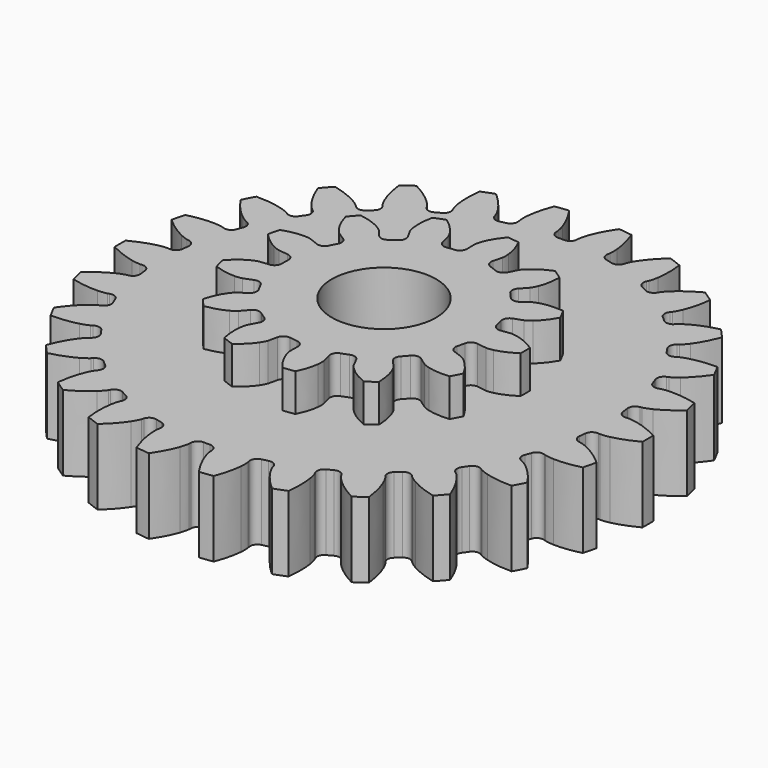
from build123d import *

# Parameters (mm, degrees)
PAD002_DEPTH    = 5
PAD_DEPTH       = 10
SKETCH_R        = 6.914284
POCKET_DEPTH    = 15.001
POCKET001_DEPTH = 5


with BuildPart() as part:
    # InvoluteGear001 → Pad002 (new body)
    with BuildSketch(Plane.XY):
        with BuildLine():
            Line((13.94554, -1.904607), (15.169847, -2.069797))
            add(Edge.make_bspline(
                [(15.169847, -2.069797), (15.274932, -2.076474), (15.590573, -2.081535), (16.120308, -1.961703)],
                knots=[0, 0, 0, 0, 1, 1, 1, 1], degree=3))
            add(Edge.make_bspline(
                [(16.120308, -1.961703), (16.751481, -1.815558), (17.651998, -1.493243), (18.736578, -0.791187)],
                knots=[0, 0, 0, 0, 1, 1, 1, 1], degree=3))
            ThreePointArc((18.736578, -0.791187), (18.751639, 0.000727), (18.733241, 0.79257))
            add(Edge.make_bspline(
                [(18.733241, 0.79257), (17.651998, 1.493243), (16.751481, 1.815558), (16.120308, 1.961703)],
                knots=[0, 0, 0, 0, 1, 1, 1, 1], degree=3))
            add(Edge.make_bspline(
                [(16.120308, 1.961703), (15.590573, 2.081535), (15.274932, 2.076474), (15.169847, 2.069797)],
                knots=[0, 0, 0, 0, 1, 1, 1, 1], degree=3))
            Line((15.169847, 2.069797), (13.94554, 1.904607))
            ThreePointArc((13.94554, 1.904607), (13.250267, 2.055981), (12.855154, 2.647762))
            ThreePointArc((12.855154, 2.647762), (12.743611, 3.141018), (12.61315, 3.629612))
            ThreePointArc((12.61315, 3.629612), (12.687991, 4.337225), (13.233278, 4.79437))
            Line((13.233278, 4.79437), (14.394116, 5.217065))
            add(Edge.make_bspline(
                [(14.394116, 5.217065), (14.490266, 5.259989), (14.772105, 5.402193), (15.185473, 5.754479)],
                knots=[0, 0, 0, 0, 1, 1, 1, 1], degree=3))
            add(Edge.make_bspline(
                [(15.185473, 5.754479), (15.676431, 6.177205), (16.324012, 6.881092), (16.958099, 8.006761)],
                knots=[0, 0, 0, 0, 1, 1, 1, 1], degree=3))
            ThreePointArc((16.958099, 8.006761), (16.603414, 8.714965), (16.219136, 9.407557))
            add(Edge.make_bspline(
                [(16.219136, 9.407557), (14.936123, 9.525493), (13.988968, 9.392398), (13.362175, 9.228483)],
                knots=[0, 0, 0, 0, 1, 1, 1, 1], degree=3))
            add(Edge.make_bspline(
                [(13.362175, 9.228483), (12.83743, 9.088409), (12.560295, 8.937241), (12.47035, 8.882494)],
                knots=[0, 0, 0, 0, 1, 1, 1, 1], degree=3))
            Line((12.47035, 8.882494), (11.463048, 8.167262))
            ThreePointArc((11.463048, 8.167262), (10.777067, 7.978187), (10.152197, 8.318564))
            ThreePointArc((10.152197, 8.318564), (9.824204, 8.703485), (9.481625, 9.075484))
            ThreePointArc((9.481625, 9.075484), (9.219049, 9.736826), (9.489431, 10.395014))
            Line((9.489431, 10.395014), (10.320865, 11.308761))
            add(Edge.make_bspline(
                [(10.320865, 11.308761), (10.386055, 11.391451), (10.569525, 11.648344), (10.771829, 12.152379)],
                knots=[0, 0, 0, 0, 1, 1, 1, 1], degree=3))
            add(Edge.make_bspline(
                [(10.771829, 12.152379), (11.0101, 12.754844), (11.256392, 13.679051), (11.294723, 14.970456)],
                knots=[0, 0, 0, 0, 1, 1, 1, 1], degree=3))
            ThreePointArc((11.294723, 14.970456), (10.651547, 15.43271), (9.989422, 15.867387))
            add(Edge.make_bspline(
                [(9.989422, 15.867387), (8.798563, 15.375568), (8.021751, 14.817553), (7.542929, 14.381128)],
                knots=[0, 0, 0, 0, 1, 1, 1, 1], degree=3))
            add(Edge.make_bspline(
                [(7.542929, 14.381128), (7.143385, 14.013237), (6.968246, 13.750594), (6.914046, 13.660319)],
                knots=[0, 0, 0, 0, 1, 1, 1, 1], degree=3))
            Line((6.914046, 13.660319), (6.354509, 12.558895))
            ThreePointArc((6.354509, 12.558895), (5.83497, 12.072687), (5.123495, 12.083684))
            ThreePointArc((5.123495, 12.083684), (4.654189, 12.272088), (4.177974, 12.442273))
            ThreePointArc((4.177974, 12.442273), (3.638134, 12.905837), (3.57167, 13.614287))
            Line((3.57167, 13.614287), (3.883229, 14.809756))
            add(Edge.make_bspline(
                [(3.883229, 14.809756), (3.902523, 14.913269), (3.945594, 15.225999), (3.890489, 15.766316)],
                knots=[0, 0, 0, 0, 1, 1, 1, 1], degree=3))
            add(Edge.make_bspline(
                [(3.890489, 15.766316), (3.821488, 16.410502), (3.610068, 17.343304), (3.043863, 18.5046)],
                knots=[0, 0, 0, 0, 1, 1, 1, 1], degree=3))
            ThreePointArc((3.043863, 18.5046), (2.259539, 18.615006), (1.471251, 18.692189))
            add(Edge.make_bspline(
                [(1.471251, 18.692189), (0.645358, 17.703285), (0.216848, 16.848185), (-0.004312, 16.23923)],
                knots=[0, 0, 0, 0, 1, 1, 1, 1], degree=3))
            add(Edge.make_bspline(
                [(-0.004312, 16.23923), (-0.187122, 15.727802), (-0.220144, 15.413852), (-0.226183, 15.308729)],
                knots=[0, 0, 0, 0, 1, 1, 1, 1], degree=3))
            Line((-0.226183, 15.308729), (-0.209771, 14.073437))
            ThreePointArc((-0.209771, 14.073437), (-0.443847, 13.401479), (-1.078939, 13.080578))
            ThreePointArc((-1.078939, 13.080578), (-1.582044, 13.029304), (-2.0828, 12.958687))
            ThreePointArc((-2.0828, 12.958687), (-2.776234, 13.118276), (-3.164318, 13.71469))
            Line((-3.164318, 13.71469), (-3.444008, 14.918014))
            add(Edge.make_bspline(
                [(-3.444008, 14.918014), (-3.475029, 15.018637), (-3.582224, 15.315562), (-3.882116, 15.76838)],
                knots=[0, 0, 0, 0, 1, 1, 1, 1], degree=3))
            add(Edge.make_bspline(
                [(-3.882116, 15.76838), (-4.242581, 16.306712), (-4.863279, 17.034416), (-5.90431, 17.799564)],
                knots=[0, 0, 0, 0, 1, 1, 1, 1], degree=3))
            ThreePointArc((-5.90431, 17.799564), (-6.650103, 17.532829), (-7.383965, 17.234836))
            add(Edge.make_bspline(
                [(-7.383965, 17.234836), (-7.655691, 15.975393), (-7.637733, 15.019101), (-7.550564, 14.377121)],
                knots=[0, 0, 0, 0, 1, 1, 1, 1], degree=3))
            add(Edge.make_bspline(
                [(-7.550564, 14.377121), (-7.474763, 13.839317), (-7.358102, 13.545982), (-7.314596, 13.450093)],
                knots=[0, 0, 0, 0, 1, 1, 1, 1], degree=3))
            Line((-7.314596, 13.450093), (-6.725996, 12.363924))
            ThreePointArc((-6.725996, 12.363924), (-6.620985, 11.660154), (-7.0342, 11.080869))
            ThreePointArc((-7.0342, 11.080869), (-7.45585, 10.801663), (-7.86643, 10.506422))
            ThreePointArc((-7.86643, 10.506422), (-8.5546, 10.325476), (-9.175399, 10.673223))
            Line((-9.175399, 10.673223), (-9.982264, 11.608735))
            add(Edge.make_bspline(
                [(-9.982264, 11.608735), (-10.056494, 11.683416), (-10.289399, 11.896514), (-10.765374, 12.158098)],
                knots=[0, 0, 0, 0, 1, 1, 1, 1], degree=3))
            add(Edge.make_bspline(
                [(-10.765374, 12.158098), (-11.334726, 12.467251), (-12.222507, 12.823148), (-13.499876, 13.016861)],
                knots=[0, 0, 0, 0, 1, 1, 1, 1], degree=3))
            ThreePointArc((-13.499876, 13.016861), (-14.036286, 12.434093), (-14.547604, 11.82919))
            add(Edge.make_bspline(
                [(-14.547604, 11.82919), (-14.202913, 10.587732), (-13.742601, 9.749322), (-13.367074, 9.221386)],
                knots=[0, 0, 0, 0, 1, 1, 1, 1], degree=3))
            add(Edge.make_bspline(
                [(-13.367074, 9.221386), (-13.050025, 8.780411), (-12.810407, 8.574891), (-12.727323, 8.510204)],
                knots=[0, 0, 0, 0, 1, 1, 1, 1], degree=3))
            Line((-12.727323, 8.510204), (-11.701375, 7.821985))
            ThreePointArc((-11.701375, 7.821985), (-11.281335, 7.247629), (-11.378012, 6.542666))
            ThreePointArc((-11.378012, 6.542666), (-11.62161, 6.099492), (-11.847956, 5.647262))
            ThreePointArc((-11.847956, 5.647262), (-12.37321, 5.167235), (-13.084506, 5.186649))
            Line((-13.084506, 5.186649), (-14.233704, 5.640035))
            add(Edge.make_bspline(
                [(-14.233704, 5.640035), (-14.334137, 5.671665), (-14.639396, 5.752118), (-15.182415, 5.762542)],
                knots=[0, 0, 0, 0, 1, 1, 1, 1], degree=3))
            add(Edge.make_bspline(
                [(-15.182415, 5.762542), (-15.830222, 5.771693), (-16.781706, 5.674251), (-18.002784, 5.252153)],
                knots=[0, 0, 0, 0, 1, 1, 1, 1], degree=3))
            ThreePointArc((-18.002784, 5.252153), (-18.206925, 4.486855), (-18.378562, 3.713619))
            add(Edge.make_bspline(
                [(-18.378562, 3.713619), (-17.496419, 2.774548), (-16.699204, 2.246091), (-16.121348, 1.953143)],
                knots=[0, 0, 0, 0, 1, 1, 1, 1], degree=3))
            add(Edge.make_bspline(
                [(-16.121348, 1.953143), (-15.635684, 1.710019), (-15.328003, 1.639395), (-15.224374, 1.620729)],
                knots=[0, 0, 0, 0, 1, 1, 1, 1], degree=3))
            Line((-15.224374, 1.620729), (-13.996111, 1.488123))
            ThreePointArc((-13.996111, 1.488123), (-13.357267, 1.174758), (-13.115257, 0.505617))
            ThreePointArc((-13.115257, 0.505617), (-13.125, 0), (-13.115257, -0.505617))
            ThreePointArc((-13.115257, -0.505617), (-13.357267, -1.174758), (-13.996111, -1.488123))
            Line((-13.996111, -1.488123), (-15.224374, -1.620729))
            add(Edge.make_bspline(
                [(-15.224374, -1.620729), (-15.328003, -1.639395), (-15.635684, -1.710019), (-16.121348, -1.953143)],
                knots=[0, 0, 0, 0, 1, 1, 1, 1], degree=3))
            add(Edge.make_bspline(
                [(-16.121348, -1.953143), (-16.699204, -2.246091), (-17.496419, -2.774548), (-18.381471, -3.715761)],
                knots=[0, 0, 0, 0, 1, 1, 1, 1], degree=3))
            ThreePointArc((-18.381471, -3.715761), (-18.206577, -4.488267), (-17.999213, -5.252698))
            add(Edge.make_bspline(
                [(-17.999213, -5.252698), (-16.781706, -5.674251), (-15.830222, -5.771693), (-15.182415, -5.762542)],
                knots=[0, 0, 0, 0, 1, 1, 1, 1], degree=3))
            add(Edge.make_bspline(
                [(-15.182415, -5.762542), (-14.639396, -5.752118), (-14.334137, -5.671665), (-14.233704, -5.640035)],
                knots=[0, 0, 0, 0, 1, 1, 1, 1], degree=3))
            Line((-14.233704, -5.640035), (-13.084506, -5.186649))
            ThreePointArc((-13.084506, -5.186649), (-12.37321, -5.167235), (-11.847956, -5.647262))
            ThreePointArc((-11.847956, -5.647262), (-11.62161, -6.099492), (-11.378012, -6.542666))
            ThreePointArc((-11.378012, -6.542666), (-11.281335, -7.247629), (-11.701375, -7.821985))
            Line((-11.701375, -7.821985), (-12.727323, -8.510204))
            add(Edge.make_bspline(
                [(-12.727323, -8.510204), (-12.810407, -8.574891), (-13.050025, -8.780411), (-13.367074, -9.221386)],
                knots=[0, 0, 0, 0, 1, 1, 1, 1], degree=3))
            add(Edge.make_bspline(
                [(-13.367074, -9.221386), (-13.742601, -9.749322), (-14.202913, -10.587732), (-14.549184, -11.832438)],
                knots=[0, 0, 0, 0, 1, 1, 1, 1], degree=3))
            ThreePointArc((-14.549184, -11.832438), (-14.035321, -12.435181), (-13.496461, -13.015684))
            add(Edge.make_bspline(
                [(-13.496461, -13.015684), (-12.222507, -12.823148), (-11.334726, -12.467251), (-10.765374, -12.158098)],
                knots=[0, 0, 0, 0, 1, 1, 1, 1], degree=3))
            add(Edge.make_bspline(
                [(-10.765374, -12.158098), (-10.289399, -11.896514), (-10.056494, -11.683416), (-9.982264, -11.608735)],
                knots=[0, 0, 0, 0, 1, 1, 1, 1], degree=3))
            Line((-9.982264, -11.608735), (-9.175399, -10.673223))
            ThreePointArc((-9.175399, -10.673223), (-8.5546, -10.325476), (-7.86643, -10.506422))
            ThreePointArc((-7.86643, -10.506422), (-7.45585, -10.801663), (-7.0342, -11.080869))
            ThreePointArc((-7.0342, -11.080869), (-6.620985, -11.660154), (-6.725996, -12.363924))
            Line((-6.725996, -12.363924), (-7.314596, -13.450093))
            add(Edge.make_bspline(
                [(-7.314596, -13.450093), (-7.358102, -13.545982), (-7.474763, -13.839317), (-7.550564, -14.377121)],
                knots=[0, 0, 0, 0, 1, 1, 1, 1], degree=3))
            add(Edge.make_bspline(
                [(-7.550564, -14.377121), (-7.637733, -15.019101), (-7.655691, -15.975393), (-7.383854, -17.238446)],
                knots=[0, 0, 0, 0, 1, 1, 1, 1], degree=3))
            ThreePointArc((-7.383854, -17.238446), (-6.648743, -17.533345), (-5.901833, -17.796934))
            add(Edge.make_bspline(
                [(-5.901833, -17.796934), (-4.863279, -17.034416), (-4.242581, -16.306712), (-3.882116, -15.76838)],
                knots=[0, 0, 0, 0, 1, 1, 1, 1], degree=3))
            add(Edge.make_bspline(
                [(-3.882116, -15.76838), (-3.582224, -15.315562), (-3.475029, -15.018637), (-3.444008, -14.918014)],
                knots=[0, 0, 0, 0, 1, 1, 1, 1], degree=3))
            Line((-3.444008, -14.918014), (-3.164318, -13.71469))
            ThreePointArc((-3.164318, -13.71469), (-2.776234, -13.118276), (-2.0828, -12.958687))
            ThreePointArc((-2.0828, -12.958687), (-1.582044, -13.029304), (-1.078939, -13.080578))
            ThreePointArc((-1.078939, -13.080578), (-0.443847, -13.401479), (-0.209771, -14.073437))
            Line((-0.209771, -14.073437), (-0.226183, -15.308729))
            add(Edge.make_bspline(
                [(-0.226183, -15.308729), (-0.220144, -15.413852), (-0.187122, -15.727802), (-0.004312, -16.23923)],
                knots=[0, 0, 0, 0, 1, 1, 1, 1], degree=3))
            add(Edge.make_bspline(
                [(-0.004312, -16.23923), (0.216848, -16.848185), (0.645358, -17.703285), (1.473027, -18.695334)],
                knots=[0, 0, 0, 0, 1, 1, 1, 1], degree=3))
            ThreePointArc((1.473027, -18.695334), (2.260982, -18.614831), (3.044834, -18.501121))
            add(Edge.make_bspline(
                [(3.044834, -18.501121), (3.610068, -17.343304), (3.821488, -16.410502), (3.890489, -15.766316)],
                knots=[0, 0, 0, 0, 1, 1, 1, 1], degree=3))
            add(Edge.make_bspline(
                [(3.890489, -15.766316), (3.945594, -15.225999), (3.902523, -14.913269), (3.883229, -14.809756)],
                knots=[0, 0, 0, 0, 1, 1, 1, 1], degree=3))
            Line((3.883229, -14.809756), (3.57167, -13.614287))
            ThreePointArc((3.57167, -13.614287), (3.638134, -12.905837), (4.177974, -12.442273))
            ThreePointArc((4.177974, -12.442273), (4.654189, -12.272088), (5.123495, -12.083684))
            ThreePointArc((5.123495, -12.083684), (5.83497, -12.072687), (6.354509, -12.558895))
            Line((6.354509, -12.558895), (6.914046, -13.660319))
            add(Edge.make_bspline(
                [(6.914046, -13.660319), (6.968246, -13.750594), (7.143385, -14.013237), (7.542929, -14.381128)],
                knots=[0, 0, 0, 0, 1, 1, 1, 1], degree=3))
            add(Edge.make_bspline(
                [(7.542929, -14.381128), (8.021751, -14.817553), (8.798563, -15.375568), (9.992456, -15.869347)],
                knots=[0, 0, 0, 0, 1, 1, 1, 1], degree=3))
            ThreePointArc((9.992456, -15.869347), (10.652743, -15.431884), (11.293966, -14.966924))
            add(Edge.make_bspline(
                [(11.293966, -14.966924), (11.256392, -13.679051), (11.0101, -12.754844), (10.771829, -12.152379)],
                knots=[0, 0, 0, 0, 1, 1, 1, 1], degree=3))
            add(Edge.make_bspline(
                [(10.771829, -12.152379), (10.569525, -11.648344), (10.386055, -11.391451), (10.320865, -11.308761)],
                knots=[0, 0, 0, 0, 1, 1, 1, 1], degree=3))
            Line((10.320865, -11.308761), (9.489431, -10.395014))
            ThreePointArc((9.489431, -10.395014), (9.219049, -9.736826), (9.481625, -9.075484))
            ThreePointArc((9.481625, -9.075484), (9.824204, -8.703485), (10.152197, -8.318564))
            ThreePointArc((10.152197, -8.318564), (10.777067, -7.978187), (11.463048, -8.167262))
            Line((11.463048, -8.167262), (12.47035, -8.882494))
            add(Edge.make_bspline(
                [(12.47035, -8.882494), (12.560295, -8.937241), (12.83743, -9.088409), (13.362175, -9.228483)],
                knots=[0, 0, 0, 0, 1, 1, 1, 1], degree=3))
            add(Edge.make_bspline(
                [(13.362175, -9.228483), (13.988968, -9.392398), (14.936123, -9.525493), (16.222733, -9.407883)],
                knots=[0, 0, 0, 0, 1, 1, 1, 1], degree=3))
            ThreePointArc((16.222733, -9.407883), (16.60409, -8.713678), (16.955787, -8.003985))
            add(Edge.make_bspline(
                [(16.955787, -8.003985), (16.324012, -6.881092), (15.676431, -6.177205), (15.185473, -5.754479)],
                knots=[0, 0, 0, 0, 1, 1, 1, 1], degree=3))
            add(Edge.make_bspline(
                [(15.185473, -5.754479), (14.772105, -5.402193), (14.490266, -5.259989), (14.394116, -5.217065)],
                knots=[0, 0, 0, 0, 1, 1, 1, 1], degree=3))
            Line((14.394116, -5.217065), (13.233278, -4.79437))
            ThreePointArc((13.233278, -4.79437), (12.687991, -4.337225), (12.61315, -3.629612))
            ThreePointArc((12.61315, -3.629612), (12.743611, -3.141018), (12.855154, -2.647762))
            ThreePointArc((12.855154, -2.647762), (13.250267, -2.055981), (13.94554, -1.904607))
        make_face()
    extrude(amount=PAD002_DEPTH)

    # InvoluteGear → Pad (join)
    with BuildSketch(Plane.XY):
        with BuildLine():
            Line((30.239023, -2.281909), (30.502529, -2.299907))
            add(Edge.make_bspline(
                [(30.502529, -2.299907), (30.632497, -2.302355), (31.024091, -2.295099), (31.676261, -2.158069)],
                knots=[0, 0, 0, 0, 1, 1, 1, 1], degree=3))
            add(Edge.make_bspline(
                [(31.676261, -2.158069), (32.457678, -1.991856), (33.586555, -1.640863), (34.990904, -0.903734)],
                knots=[0, 0, 0, 0, 1, 1, 1, 1], degree=3))
            ThreePointArc((34.990904, -0.903734), (35.001287, 0.000476), (34.988307, 0.904653))
            add(Edge.make_bspline(
                [(34.988307, 0.904653), (33.586555, 1.640863), (32.457678, 1.991856), (31.676261, 2.158069)],
                knots=[0, 0, 0, 0, 1, 1, 1, 1], degree=3))
            add(Edge.make_bspline(
                [(31.676261, 2.158069), (31.024091, 2.295099), (30.632497, 2.302355), (30.502529, 2.299907)],
                knots=[0, 0, 0, 0, 1, 1, 1, 1], degree=3))
            Line((30.502529, 2.299907), (30.239023, 2.281909))
            ThreePointArc((30.239023, 2.281909), (29.550636, 2.493126), (29.208141, 3.126519))
            ThreePointArc((29.208141, 3.126519), (29.160823, 3.540765), (29.107631, 3.954298))
            ThreePointArc((29.107631, 3.954298), (29.288592, 4.65125), (29.906429, 5.021071))
            Line((29.906429, 5.021071), (30.166584, 5.066657))
            add(Edge.make_bspline(
                [(30.166584, 5.066657), (30.293362, 5.095384), (30.67184, 5.196144), (31.272266, 5.485266)],
                knots=[0, 0, 0, 0, 1, 1, 1, 1], degree=3))
            add(Edge.make_bspline(
                [(31.272266, 5.485266), (31.991199, 5.833654), (33.003274, 6.444606), (34.190409, 7.496398)],
                knots=[0, 0, 0, 0, 1, 1, 1, 1], degree=3))
            ThreePointArc((34.190409, 7.496398), (33.984099, 8.376819), (33.755112, 9.251615))
            add(Edge.make_bspline(
                [(33.755112, 9.251615), (32.217906, 9.630971), (31.037834, 9.701607), (30.239346, 9.675985)],
                knots=[0, 0, 0, 0, 1, 1, 1, 1], degree=3))
            add(Edge.make_bspline(
                [(30.239346, 9.675985), (29.573334, 9.652958), (29.191383, 9.566289), (29.065777, 9.532808)],
                knots=[0, 0, 0, 0, 1, 1, 1, 1], degree=3))
            Line((29.065777, 9.532808), (28.814236, 9.452272))
            ThreePointArc((28.814236, 9.452272), (28.095304, 9.49261), (27.611181, 10.025634))
            ThreePointArc((27.611181, 10.025634), (27.466102, 10.416519), (27.31549, 10.805305))
            ThreePointArc((27.31549, 10.805305), (27.324402, 11.525312), (27.835781, 12.032245))
            Line((27.835781, 12.032245), (28.077468, 12.138766))
            add(Edge.make_bspline(
                [(28.077468, 12.138766), (28.193687, 12.196997), (28.537054, 12.385405), (29.050841, 12.809817)],
                knots=[0, 0, 0, 0, 1, 1, 1, 1], degree=3))
            add(Edge.make_bspline(
                [(29.050841, 12.809817), (29.665508, 13.320134), (30.501964, 14.155538), (31.402893, 15.460867)],
                knots=[0, 0, 0, 0, 1, 1, 1, 1], degree=3))
            ThreePointArc((31.402893, 15.460867), (30.991879, 16.266331), (30.560194, 17.060907))
            add(Edge.make_bspline(
                [(30.560194, 17.060907), (28.97687, 17.061362), (27.814185, 16.847536), (27.045031, 16.631567)],
                knots=[0, 0, 0, 0, 1, 1, 1, 1], degree=3))
            add(Edge.make_bspline(
                [(27.045031, 16.631567), (26.403883, 16.449823), (26.053772, 16.274265), (25.939828, 16.211698)],
                knots=[0, 0, 0, 0, 1, 1, 1, 1], degree=3))
            Line((25.939828, 16.211698), (25.714869, 16.073305))
            ThreePointArc((25.714869, 16.073305), (25.007175, 15.940418), (24.409559, 16.342095))
            ThreePointArc((24.409559, 16.342095), (24.175151, 16.686902), (23.935873, 17.028347))
            ThreePointArc((23.935873, 17.028347), (23.772217, 17.729565), (24.147419, 18.344148))
            Line((24.147419, 18.344148), (24.356591, 18.505413))
            add(Edge.make_bspline(
                [(24.356591, 18.505413), (24.455497, 18.589766), (24.743798, 18.854872), (25.141086, 19.389909)],
                knots=[0, 0, 0, 0, 1, 1, 1, 1], degree=3))
            add(Edge.make_bspline(
                [(25.141086, 19.389909), (25.615766, 20.032496), (26.22799, 21.043802), (26.790354, 22.526807)],
                knots=[0, 0, 0, 0, 1, 1, 1, 1], degree=3))
            ThreePointArc((26.790354, 22.526807), (26.198523, 23.210503), (25.589228, 23.878682))
            add(Edge.make_bspline(
                [(25.589228, 23.878682), (24.051804, 23.500209), (22.974076, 23.014347), (22.278957, 22.620584)],
                knots=[0, 0, 0, 0, 1, 1, 1, 1], degree=3))
            add(Edge.make_bspline(
                [(22.278957, 22.620584), (21.699934, 22.290684), (21.40201, 22.03644), (21.30635, 21.948423)],
                knots=[0, 0, 0, 0, 1, 1, 1, 1], degree=3))
            Line((21.30635, 21.948423), (21.121048, 21.760215))
            ThreePointArc((21.121048, 21.760215), (20.46572, 21.461828), (19.789342, 21.708813))
            ThreePointArc((19.789342, 21.708813), (19.479228, 21.987503), (19.16519, 22.261764))
            ThreePointArc((19.16519, 22.261764), (18.838477, 22.90344), (19.055697, 23.589956))
            Line((19.055697, 23.589956), (19.220197, 23.796593))
            add(Edge.make_bspline(
                [(19.220197, 23.796593), (19.296043, 23.902165), (19.512522, 24.228562), (19.770223, 24.843129)],
                knots=[0, 0, 0, 0, 1, 1, 1, 1], degree=3))
            add(Edge.make_bspline(
                [(19.770223, 24.843129), (20.077328, 25.580642), (20.429741, 26.709076), (20.620857, 28.28357)],
                knots=[0, 0, 0, 0, 1, 1, 1, 1], degree=3))
            ThreePointArc((20.620857, 28.28357), (19.882605, 28.805765), (19.131109, 29.308713))
            add(Edge.make_bspline(
                [(19.131109, 29.308713), (17.728934, 28.573309), (16.798797, 27.843649), (16.218111, 27.294974)],
                knots=[0, 0, 0, 0, 1, 1, 1, 1], degree=3))
            add(Edge.make_bspline(
                [(16.218111, 27.294974), (15.734863, 26.836091), (15.506441, 26.517938), (15.434625, 26.409585)],
                knots=[0, 0, 0, 0, 1, 1, 1, 1], degree=3))
            Line((15.434625, 26.409585), (15.299749, 26.1825))
            ThreePointArc((15.299749, 26.1825), (14.734872, 25.735953), (14.019041, 25.813894))
            ThreePointArc((14.019041, 25.813894), (13.651243, 26.010271), (13.280696, 26.201407))
            ThreePointArc((13.280696, 26.201407), (12.809913, 26.74625), (12.856527, 27.464802))
            Line((12.856527, 27.464802), (12.966796, 27.704802))
            add(Edge.make_bspline(
                [(12.966796, 27.704802), (13.015172, 27.825456), (13.147249, 28.194176), (13.250386, 28.852557)],
                knots=[0, 0, 0, 0, 1, 1, 1, 1], degree=3))
            add(Edge.make_bspline(
                [(13.250386, 28.852557), (13.372069, 29.642134), (13.44419, 30.822116), (13.252951, 32.396595)],
                knots=[0, 0, 0, 0, 1, 1, 1, 1], degree=3))
            ThreePointArc((13.252951, 32.396595), (12.411182, 32.72694), (11.561159, 33.035429))
            add(Edge.make_bspline(
                [(11.561159, 33.035429), (10.375723, 31.985832), (9.647233, 31.054778), (9.214727, 30.38308)],
                knots=[0, 0, 0, 0, 1, 1, 1, 1], degree=3))
            add(Edge.make_bspline(
                [(9.214727, 30.38308), (8.85534, 29.821882), (8.709694, 29.458309), (8.665896, 29.335918)],
                knots=[0, 0, 0, 0, 1, 1, 1, 1], degree=3))
            Line((8.665896, 29.335918), (8.589284, 29.083154))
            ThreePointArc((8.589284, 29.083154), (8.147687, 28.514399), (7.434004, 28.418765))
            ThreePointArc((7.434004, 28.418765), (7.029898, 28.521416), (6.624375, 28.618321))
            ThreePointArc((6.624375, 28.618321), (6.036884, 29.034665), (5.910182, 29.743493))
            Line((5.910182, 29.743493), (5.959811, 30.002908))
            add(Edge.make_bspline(
                [(5.959811, 30.002908), (5.977908, 30.131634), (6.017906, 30.521247), (5.960485, 31.185179)],
                knots=[0, 0, 0, 0, 1, 1, 1, 1], degree=3))
            add(Edge.make_bspline(
                [(5.960485, 31.185179), (5.889674, 31.980933), (5.677311, 33.143887), (5.114832, 34.626848)],
                knots=[0, 0, 0, 0, 1, 1, 1, 1], degree=3))
            ThreePointArc((5.114832, 34.626848), (4.218466, 34.746145), (3.319317, 34.842246))
            add(Edge.make_bspline(
                [(3.319317, 34.842246), (2.419513, 33.539455), (1.935007, 32.461117), (1.675817, 31.705432)],
                knots=[0, 0, 0, 0, 1, 1, 1, 1], degree=3))
            add(Edge.make_bspline(
                [(1.675817, 31.705432), (1.461176, 31.074534), (1.406771, 30.68667), (1.393536, 30.557354)],
                knots=[0, 0, 0, 0, 1, 1, 1, 1], degree=3))
            Line((1.393536, 30.557354), (1.37964, 30.2936))
            ThreePointArc((1.37964, 30.2936), (1.086987, 29.635692), (0.416929, 29.372041))
            ThreePointArc((0.416929, 29.372041), (0, 29.375), (-0.416929, 29.372041))
            ThreePointArc((-0.416929, 29.372041), (-1.086987, 29.635692), (-1.37964, 30.2936))
            Line((-1.37964, 30.2936), (-1.393536, 30.557354))
            add(Edge.make_bspline(
                [(-1.393536, 30.557354), (-1.406771, 30.68667), (-1.461176, 31.074534), (-1.675817, 31.705432)],
                knots=[0, 0, 0, 0, 1, 1, 1, 1], degree=3))
            add(Edge.make_bspline(
                [(-1.675817, 31.705432), (-1.935007, 32.461117), (-2.419513, 33.539455), (-3.320543, 34.844714)],
                knots=[0, 0, 0, 0, 1, 1, 1, 1], degree=3))
            ThreePointArc((-3.320543, 34.844714), (-4.219412, 34.74603), (-5.115432, 34.624159))
            add(Edge.make_bspline(
                [(-5.115432, 34.624159), (-5.677311, 33.143887), (-5.889674, 31.980933), (-5.960485, 31.185179)],
                knots=[0, 0, 0, 0, 1, 1, 1, 1], degree=3))
            add(Edge.make_bspline(
                [(-5.960485, 31.185179), (-6.017906, 30.521247), (-5.977908, 30.131634), (-5.959811, 30.002908)],
                knots=[0, 0, 0, 0, 1, 1, 1, 1], degree=3))
            Line((-5.959811, 30.002908), (-5.910182, 29.743493))
            ThreePointArc((-5.910182, 29.743493), (-6.036884, 29.034665), (-6.624375, 28.618321))
            ThreePointArc((-6.624375, 28.618321), (-7.029898, 28.521416), (-7.434004, 28.418765))
            ThreePointArc((-7.434004, 28.418765), (-8.147687, 28.514399), (-8.589284, 29.083154))
            Line((-8.589284, 29.083154), (-8.665896, 29.335918))
            add(Edge.make_bspline(
                [(-8.665896, 29.335918), (-8.709694, 29.458309), (-8.85534, 29.821882), (-9.214727, 30.38308)],
                knots=[0, 0, 0, 0, 1, 1, 1, 1], degree=3))
            add(Edge.make_bspline(
                [(-9.214727, 30.38308), (-9.647233, 31.054778), (-10.375723, 31.985832), (-11.56294, 33.037532)],
                knots=[0, 0, 0, 0, 1, 1, 1, 1], degree=3))
            ThreePointArc((-11.56294, 33.037532), (-12.412073, 32.726603), (-13.25289, 32.393841))
            add(Edge.make_bspline(
                [(-13.25289, 32.393841), (-13.44419, 30.822116), (-13.372069, 29.642134), (-13.250386, 28.852557)],
                knots=[0, 0, 0, 0, 1, 1, 1, 1], degree=3))
            add(Edge.make_bspline(
                [(-13.250386, 28.852557), (-13.147249, 28.194176), (-13.015172, 27.825456), (-12.966796, 27.704802)],
                knots=[0, 0, 0, 0, 1, 1, 1, 1], degree=3))
            Line((-12.966796, 27.704802), (-12.856527, 27.464802))
            ThreePointArc((-12.856527, 27.464802), (-12.809913, 26.74625), (-13.280696, 26.201407))
            ThreePointArc((-13.280696, 26.201407), (-13.651243, 26.010271), (-14.019041, 25.813894))
            ThreePointArc((-14.019041, 25.813894), (-14.734872, 25.735953), (-15.299749, 26.1825))
            Line((-15.299749, 26.1825), (-15.434625, 26.409585))
            add(Edge.make_bspline(
                [(-15.434625, 26.409585), (-15.506441, 26.517938), (-15.734863, 26.836091), (-16.218111, 27.294974)],
                knots=[0, 0, 0, 0, 1, 1, 1, 1], degree=3))
            add(Edge.make_bspline(
                [(-16.218111, 27.294974), (-16.798797, 27.843649), (-17.728934, 28.573309), (-19.13334, 29.310329)],
                knots=[0, 0, 0, 0, 1, 1, 1, 1], degree=3))
            ThreePointArc((-19.13334, 29.310329), (-19.883389, 28.805224), (-20.620138, 28.28091))
            add(Edge.make_bspline(
                [(-20.620138, 28.28091), (-20.429741, 26.709076), (-20.077328, 25.580642), (-19.770223, 24.843129)],
                knots=[0, 0, 0, 0, 1, 1, 1, 1], degree=3))
            add(Edge.make_bspline(
                [(-19.770223, 24.843129), (-19.512522, 24.228562), (-19.296043, 23.902165), (-19.220197, 23.796593)],
                knots=[0, 0, 0, 0, 1, 1, 1, 1], degree=3))
            Line((-19.220197, 23.796593), (-19.055697, 23.589956))
            ThreePointArc((-19.055697, 23.589956), (-18.838477, 22.90344), (-19.16519, 22.261764))
            ThreePointArc((-19.16519, 22.261764), (-19.479228, 21.987503), (-19.789342, 21.708813))
            ThreePointArc((-19.789342, 21.708813), (-20.46572, 21.461828), (-21.121048, 21.760215))
            Line((-21.121048, 21.760215), (-21.30635, 21.948423))
            add(Edge.make_bspline(
                [(-21.30635, 21.948423), (-21.40201, 22.03644), (-21.699934, 22.290684), (-22.278957, 22.620584)],
                knots=[0, 0, 0, 0, 1, 1, 1, 1], degree=3))
            add(Edge.make_bspline(
                [(-22.278957, 22.620584), (-22.974076, 23.014347), (-24.051804, 23.500209), (-25.591781, 23.879716)],
                knots=[0, 0, 0, 0, 1, 1, 1, 1], degree=3))
            ThreePointArc((-25.591781, 23.879716), (-26.199155, 23.20979), (-26.78902, 22.524396))
            add(Edge.make_bspline(
                [(-26.78902, 22.524396), (-26.22799, 21.043802), (-25.615766, 20.032496), (-25.141086, 19.389909)],
                knots=[0, 0, 0, 0, 1, 1, 1, 1], degree=3))
            add(Edge.make_bspline(
                [(-25.141086, 19.389909), (-24.743798, 18.854872), (-24.455497, 18.589766), (-24.356591, 18.505413)],
                knots=[0, 0, 0, 0, 1, 1, 1, 1], degree=3))
            Line((-24.356591, 18.505413), (-24.147419, 18.344148))
            ThreePointArc((-24.147419, 18.344148), (-23.772217, 17.729565), (-23.935873, 17.028347))
            ThreePointArc((-23.935873, 17.028347), (-24.175151, 16.686902), (-24.409559, 16.342095))
            ThreePointArc((-24.409559, 16.342095), (-25.007175, 15.940418), (-25.714869, 16.073305))
            Line((-25.714869, 16.073305), (-25.939828, 16.211698))
            add(Edge.make_bspline(
                [(-25.939828, 16.211698), (-26.053772, 16.274265), (-26.403883, 16.449823), (-27.045031, 16.631567)],
                knots=[0, 0, 0, 0, 1, 1, 1, 1], degree=3))
            add(Edge.make_bspline(
                [(-27.045031, 16.631567), (-27.814185, 16.847536), (-28.97687, 17.061362), (-30.56292, 17.0613)],
                knots=[0, 0, 0, 0, 1, 1, 1, 1], degree=3))
            ThreePointArc((-30.56292, 17.0613), (-30.992322, 16.265487), (-31.40102, 15.458846))
            add(Edge.make_bspline(
                [(-31.40102, 15.458846), (-30.501964, 14.155538), (-29.665508, 13.320134), (-29.050841, 12.809817)],
                knots=[0, 0, 0, 0, 1, 1, 1, 1], degree=3))
            add(Edge.make_bspline(
                [(-29.050841, 12.809817), (-28.537054, 12.385405), (-28.193687, 12.196997), (-28.077468, 12.138766)],
                knots=[0, 0, 0, 0, 1, 1, 1, 1], degree=3))
            Line((-28.077468, 12.138766), (-27.835781, 12.032245))
            ThreePointArc((-27.835781, 12.032245), (-27.324402, 11.525312), (-27.31549, 10.805305))
            ThreePointArc((-27.31549, 10.805305), (-27.466102, 10.416519), (-27.611181, 10.025634))
            ThreePointArc((-27.611181, 10.025634), (-28.095304, 9.49261), (-28.814236, 9.452272))
            Line((-28.814236, 9.452272), (-29.065777, 9.532808))
            add(Edge.make_bspline(
                [(-29.065777, 9.532808), (-29.191383, 9.566289), (-29.573334, 9.652958), (-30.239346, 9.675985)],
                knots=[0, 0, 0, 0, 1, 1, 1, 1], degree=3))
            add(Edge.make_bspline(
                [(-30.239346, 9.675985), (-31.037834, 9.701607), (-32.217906, 9.630971), (-33.757854, 9.251344)],
                knots=[0, 0, 0, 0, 1, 1, 1, 1], degree=3))
            ThreePointArc((-33.757854, 9.251344), (-33.984327, 8.375894), (-34.188108, 7.494884))
            add(Edge.make_bspline(
                [(-34.188108, 7.494884), (-33.003274, 6.444606), (-31.991199, 5.833654), (-31.272266, 5.485266)],
                knots=[0, 0, 0, 0, 1, 1, 1, 1], degree=3))
            add(Edge.make_bspline(
                [(-31.272266, 5.485266), (-30.67184, 5.196144), (-30.293362, 5.095384), (-30.166584, 5.066657)],
                knots=[0, 0, 0, 0, 1, 1, 1, 1], degree=3))
            Line((-30.166584, 5.066657), (-29.906429, 5.021071))
            ThreePointArc((-29.906429, 5.021071), (-29.288592, 4.65125), (-29.107631, 3.954298))
            ThreePointArc((-29.107631, 3.954298), (-29.160823, 3.540765), (-29.208141, 3.126519))
            ThreePointArc((-29.208141, 3.126519), (-29.550636, 2.493126), (-30.239023, 2.281909))
            Line((-30.239023, 2.281909), (-30.502529, 2.299907))
            add(Edge.make_bspline(
                [(-30.502529, 2.299907), (-30.632497, 2.302355), (-31.024091, 2.295099), (-31.676261, 2.158069)],
                knots=[0, 0, 0, 0, 1, 1, 1, 1], degree=3))
            add(Edge.make_bspline(
                [(-31.676261, 2.158069), (-32.457678, 1.991856), (-33.586555, 1.640863), (-34.990904, 0.903734)],
                knots=[0, 0, 0, 0, 1, 1, 1, 1], degree=3))
            ThreePointArc((-34.990904, 0.903734), (-35.001287, -0.000476), (-34.988307, -0.904653))
            add(Edge.make_bspline(
                [(-34.988307, -0.904653), (-33.586555, -1.640863), (-32.457678, -1.991856), (-31.676261, -2.158069)],
                knots=[0, 0, 0, 0, 1, 1, 1, 1], degree=3))
            add(Edge.make_bspline(
                [(-31.676261, -2.158069), (-31.024091, -2.295099), (-30.632497, -2.302355), (-30.502529, -2.299907)],
                knots=[0, 0, 0, 0, 1, 1, 1, 1], degree=3))
            Line((-30.502529, -2.299907), (-30.239023, -2.281909))
            ThreePointArc((-30.239023, -2.281909), (-29.550636, -2.493126), (-29.208141, -3.126519))
            ThreePointArc((-29.208141, -3.126519), (-29.160823, -3.540765), (-29.107631, -3.954298))
            ThreePointArc((-29.107631, -3.954298), (-29.288592, -4.65125), (-29.906429, -5.021071))
            Line((-29.906429, -5.021071), (-30.166584, -5.066657))
            add(Edge.make_bspline(
                [(-30.166584, -5.066657), (-30.293362, -5.095384), (-30.67184, -5.196144), (-31.272266, -5.485266)],
                knots=[0, 0, 0, 0, 1, 1, 1, 1], degree=3))
            add(Edge.make_bspline(
                [(-31.272266, -5.485266), (-31.991199, -5.833654), (-33.003274, -6.444606), (-34.190409, -7.496398)],
                knots=[0, 0, 0, 0, 1, 1, 1, 1], degree=3))
            ThreePointArc((-34.190409, -7.496398), (-33.984099, -8.376819), (-33.755112, -9.251615))
            add(Edge.make_bspline(
                [(-33.755112, -9.251615), (-32.217906, -9.630971), (-31.037834, -9.701607), (-30.239346, -9.675985)],
                knots=[0, 0, 0, 0, 1, 1, 1, 1], degree=3))
            add(Edge.make_bspline(
                [(-30.239346, -9.675985), (-29.573334, -9.652958), (-29.191383, -9.566289), (-29.065777, -9.532808)],
                knots=[0, 0, 0, 0, 1, 1, 1, 1], degree=3))
            Line((-29.065777, -9.532808), (-28.814236, -9.452272))
            ThreePointArc((-28.814236, -9.452272), (-28.095304, -9.49261), (-27.611181, -10.025634))
            ThreePointArc((-27.611181, -10.025634), (-27.466102, -10.416519), (-27.31549, -10.805305))
            ThreePointArc((-27.31549, -10.805305), (-27.324402, -11.525312), (-27.835781, -12.032245))
            Line((-27.835781, -12.032245), (-28.077468, -12.138766))
            add(Edge.make_bspline(
                [(-28.077468, -12.138766), (-28.193687, -12.196997), (-28.537054, -12.385405), (-29.050841, -12.809817)],
                knots=[0, 0, 0, 0, 1, 1, 1, 1], degree=3))
            add(Edge.make_bspline(
                [(-29.050841, -12.809817), (-29.665508, -13.320134), (-30.501964, -14.155538), (-31.402893, -15.460867)],
                knots=[0, 0, 0, 0, 1, 1, 1, 1], degree=3))
            ThreePointArc((-31.402893, -15.460867), (-30.991879, -16.266331), (-30.560194, -17.060907))
            add(Edge.make_bspline(
                [(-30.560194, -17.060907), (-28.97687, -17.061362), (-27.814185, -16.847536), (-27.045031, -16.631567)],
                knots=[0, 0, 0, 0, 1, 1, 1, 1], degree=3))
            add(Edge.make_bspline(
                [(-27.045031, -16.631567), (-26.403883, -16.449823), (-26.053772, -16.274265), (-25.939828, -16.211698)],
                knots=[0, 0, 0, 0, 1, 1, 1, 1], degree=3))
            Line((-25.939828, -16.211698), (-25.714869, -16.073305))
            ThreePointArc((-25.714869, -16.073305), (-25.007175, -15.940418), (-24.409559, -16.342095))
            ThreePointArc((-24.409559, -16.342095), (-24.175151, -16.686902), (-23.935873, -17.028347))
            ThreePointArc((-23.935873, -17.028347), (-23.772217, -17.729565), (-24.147419, -18.344148))
            Line((-24.147419, -18.344148), (-24.356591, -18.505413))
            add(Edge.make_bspline(
                [(-24.356591, -18.505413), (-24.455497, -18.589766), (-24.743798, -18.854872), (-25.141086, -19.389909)],
                knots=[0, 0, 0, 0, 1, 1, 1, 1], degree=3))
            add(Edge.make_bspline(
                [(-25.141086, -19.389909), (-25.615766, -20.032496), (-26.22799, -21.043802), (-26.790354, -22.526807)],
                knots=[0, 0, 0, 0, 1, 1, 1, 1], degree=3))
            ThreePointArc((-26.790354, -22.526807), (-26.198523, -23.210503), (-25.589228, -23.878682))
            add(Edge.make_bspline(
                [(-25.589228, -23.878682), (-24.051804, -23.500209), (-22.974076, -23.014347), (-22.278957, -22.620584)],
                knots=[0, 0, 0, 0, 1, 1, 1, 1], degree=3))
            add(Edge.make_bspline(
                [(-22.278957, -22.620584), (-21.699934, -22.290684), (-21.40201, -22.03644), (-21.30635, -21.948423)],
                knots=[0, 0, 0, 0, 1, 1, 1, 1], degree=3))
            Line((-21.30635, -21.948423), (-21.121048, -21.760215))
            ThreePointArc((-21.121048, -21.760215), (-20.46572, -21.461828), (-19.789342, -21.708813))
            ThreePointArc((-19.789342, -21.708813), (-19.479228, -21.987503), (-19.16519, -22.261764))
            ThreePointArc((-19.16519, -22.261764), (-18.838477, -22.90344), (-19.055697, -23.589956))
            Line((-19.055697, -23.589956), (-19.220197, -23.796593))
            add(Edge.make_bspline(
                [(-19.220197, -23.796593), (-19.296043, -23.902165), (-19.512522, -24.228562), (-19.770223, -24.843129)],
                knots=[0, 0, 0, 0, 1, 1, 1, 1], degree=3))
            add(Edge.make_bspline(
                [(-19.770223, -24.843129), (-20.077328, -25.580642), (-20.429741, -26.709076), (-20.620857, -28.28357)],
                knots=[0, 0, 0, 0, 1, 1, 1, 1], degree=3))
            ThreePointArc((-20.620857, -28.28357), (-19.882605, -28.805765), (-19.131109, -29.308713))
            add(Edge.make_bspline(
                [(-19.131109, -29.308713), (-17.728934, -28.573309), (-16.798797, -27.843649), (-16.218111, -27.294974)],
                knots=[0, 0, 0, 0, 1, 1, 1, 1], degree=3))
            add(Edge.make_bspline(
                [(-16.218111, -27.294974), (-15.734863, -26.836091), (-15.506441, -26.517938), (-15.434625, -26.409585)],
                knots=[0, 0, 0, 0, 1, 1, 1, 1], degree=3))
            Line((-15.434625, -26.409585), (-15.299749, -26.1825))
            ThreePointArc((-15.299749, -26.1825), (-14.734872, -25.735953), (-14.019041, -25.813894))
            ThreePointArc((-14.019041, -25.813894), (-13.651243, -26.010271), (-13.280696, -26.201407))
            ThreePointArc((-13.280696, -26.201407), (-12.809913, -26.74625), (-12.856527, -27.464802))
            Line((-12.856527, -27.464802), (-12.966796, -27.704802))
            add(Edge.make_bspline(
                [(-12.966796, -27.704802), (-13.015172, -27.825456), (-13.147249, -28.194176), (-13.250386, -28.852557)],
                knots=[0, 0, 0, 0, 1, 1, 1, 1], degree=3))
            add(Edge.make_bspline(
                [(-13.250386, -28.852557), (-13.372069, -29.642134), (-13.44419, -30.822116), (-13.252951, -32.396595)],
                knots=[0, 0, 0, 0, 1, 1, 1, 1], degree=3))
            ThreePointArc((-13.252951, -32.396595), (-12.411182, -32.72694), (-11.561159, -33.035429))
            add(Edge.make_bspline(
                [(-11.561159, -33.035429), (-10.375723, -31.985832), (-9.647233, -31.054778), (-9.214727, -30.38308)],
                knots=[0, 0, 0, 0, 1, 1, 1, 1], degree=3))
            add(Edge.make_bspline(
                [(-9.214727, -30.38308), (-8.85534, -29.821882), (-8.709694, -29.458309), (-8.665896, -29.335918)],
                knots=[0, 0, 0, 0, 1, 1, 1, 1], degree=3))
            Line((-8.665896, -29.335918), (-8.589284, -29.083154))
            ThreePointArc((-8.589284, -29.083154), (-8.147687, -28.514399), (-7.434004, -28.418765))
            ThreePointArc((-7.434004, -28.418765), (-7.029898, -28.521416), (-6.624375, -28.618321))
            ThreePointArc((-6.624375, -28.618321), (-6.036884, -29.034665), (-5.910182, -29.743493))
            Line((-5.910182, -29.743493), (-5.959811, -30.002908))
            add(Edge.make_bspline(
                [(-5.959811, -30.002908), (-5.977908, -30.131634), (-6.017906, -30.521247), (-5.960485, -31.185179)],
                knots=[0, 0, 0, 0, 1, 1, 1, 1], degree=3))
            add(Edge.make_bspline(
                [(-5.960485, -31.185179), (-5.889674, -31.980933), (-5.677311, -33.143887), (-5.114832, -34.626848)],
                knots=[0, 0, 0, 0, 1, 1, 1, 1], degree=3))
            ThreePointArc((-5.114832, -34.626848), (-4.218466, -34.746145), (-3.319317, -34.842246))
            add(Edge.make_bspline(
                [(-3.319317, -34.842246), (-2.419513, -33.539455), (-1.935007, -32.461117), (-1.675817, -31.705432)],
                knots=[0, 0, 0, 0, 1, 1, 1, 1], degree=3))
            add(Edge.make_bspline(
                [(-1.675817, -31.705432), (-1.461176, -31.074534), (-1.406771, -30.68667), (-1.393536, -30.557354)],
                knots=[0, 0, 0, 0, 1, 1, 1, 1], degree=3))
            Line((-1.393536, -30.557354), (-1.37964, -30.2936))
            ThreePointArc((-1.37964, -30.2936), (-1.086987, -29.635692), (-0.416929, -29.372041))
            ThreePointArc((-0.416929, -29.372041), (0, -29.375), (0.416929, -29.372041))
            ThreePointArc((0.416929, -29.372041), (1.086987, -29.635692), (1.37964, -30.2936))
            Line((1.37964, -30.2936), (1.393536, -30.557354))
            add(Edge.make_bspline(
                [(1.393536, -30.557354), (1.406771, -30.68667), (1.461176, -31.074534), (1.675817, -31.705432)],
                knots=[0, 0, 0, 0, 1, 1, 1, 1], degree=3))
            add(Edge.make_bspline(
                [(1.675817, -31.705432), (1.935007, -32.461117), (2.419513, -33.539455), (3.320543, -34.844714)],
                knots=[0, 0, 0, 0, 1, 1, 1, 1], degree=3))
            ThreePointArc((3.320543, -34.844714), (4.219412, -34.74603), (5.115432, -34.624159))
            add(Edge.make_bspline(
                [(5.115432, -34.624159), (5.677311, -33.143887), (5.889674, -31.980933), (5.960485, -31.185179)],
                knots=[0, 0, 0, 0, 1, 1, 1, 1], degree=3))
            add(Edge.make_bspline(
                [(5.960485, -31.185179), (6.017906, -30.521247), (5.977908, -30.131634), (5.959811, -30.002908)],
                knots=[0, 0, 0, 0, 1, 1, 1, 1], degree=3))
            Line((5.959811, -30.002908), (5.910182, -29.743493))
            ThreePointArc((5.910182, -29.743493), (6.036884, -29.034665), (6.624375, -28.618321))
            ThreePointArc((6.624375, -28.618321), (7.029898, -28.521416), (7.434004, -28.418765))
            ThreePointArc((7.434004, -28.418765), (8.147687, -28.514399), (8.589284, -29.083154))
            Line((8.589284, -29.083154), (8.665896, -29.335918))
            add(Edge.make_bspline(
                [(8.665896, -29.335918), (8.709694, -29.458309), (8.85534, -29.821882), (9.214727, -30.38308)],
                knots=[0, 0, 0, 0, 1, 1, 1, 1], degree=3))
            add(Edge.make_bspline(
                [(9.214727, -30.38308), (9.647233, -31.054778), (10.375723, -31.985832), (11.56294, -33.037532)],
                knots=[0, 0, 0, 0, 1, 1, 1, 1], degree=3))
            ThreePointArc((11.56294, -33.037532), (12.412073, -32.726603), (13.25289, -32.393841))
            add(Edge.make_bspline(
                [(13.25289, -32.393841), (13.44419, -30.822116), (13.372069, -29.642134), (13.250386, -28.852557)],
                knots=[0, 0, 0, 0, 1, 1, 1, 1], degree=3))
            add(Edge.make_bspline(
                [(13.250386, -28.852557), (13.147249, -28.194176), (13.015172, -27.825456), (12.966796, -27.704802)],
                knots=[0, 0, 0, 0, 1, 1, 1, 1], degree=3))
            Line((12.966796, -27.704802), (12.856527, -27.464802))
            ThreePointArc((12.856527, -27.464802), (12.809913, -26.74625), (13.280696, -26.201407))
            ThreePointArc((13.280696, -26.201407), (13.651243, -26.010271), (14.019041, -25.813894))
            ThreePointArc((14.019041, -25.813894), (14.734872, -25.735953), (15.299749, -26.1825))
            Line((15.299749, -26.1825), (15.434625, -26.409585))
            add(Edge.make_bspline(
                [(15.434625, -26.409585), (15.506441, -26.517938), (15.734863, -26.836091), (16.218111, -27.294974)],
                knots=[0, 0, 0, 0, 1, 1, 1, 1], degree=3))
            add(Edge.make_bspline(
                [(16.218111, -27.294974), (16.798797, -27.843649), (17.728934, -28.573309), (19.13334, -29.310329)],
                knots=[0, 0, 0, 0, 1, 1, 1, 1], degree=3))
            ThreePointArc((19.13334, -29.310329), (19.883389, -28.805224), (20.620138, -28.28091))
            add(Edge.make_bspline(
                [(20.620138, -28.28091), (20.429741, -26.709076), (20.077328, -25.580642), (19.770223, -24.843129)],
                knots=[0, 0, 0, 0, 1, 1, 1, 1], degree=3))
            add(Edge.make_bspline(
                [(19.770223, -24.843129), (19.512522, -24.228562), (19.296043, -23.902165), (19.220197, -23.796593)],
                knots=[0, 0, 0, 0, 1, 1, 1, 1], degree=3))
            Line((19.220197, -23.796593), (19.055697, -23.589956))
            ThreePointArc((19.055697, -23.589956), (18.838477, -22.90344), (19.16519, -22.261764))
            ThreePointArc((19.16519, -22.261764), (19.479228, -21.987503), (19.789342, -21.708813))
            ThreePointArc((19.789342, -21.708813), (20.46572, -21.461828), (21.121048, -21.760215))
            Line((21.121048, -21.760215), (21.30635, -21.948423))
            add(Edge.make_bspline(
                [(21.30635, -21.948423), (21.40201, -22.03644), (21.699934, -22.290684), (22.278957, -22.620584)],
                knots=[0, 0, 0, 0, 1, 1, 1, 1], degree=3))
            add(Edge.make_bspline(
                [(22.278957, -22.620584), (22.974076, -23.014347), (24.051804, -23.500209), (25.591781, -23.879716)],
                knots=[0, 0, 0, 0, 1, 1, 1, 1], degree=3))
            ThreePointArc((25.591781, -23.879716), (26.199155, -23.20979), (26.78902, -22.524396))
            add(Edge.make_bspline(
                [(26.78902, -22.524396), (26.22799, -21.043802), (25.615766, -20.032496), (25.141086, -19.389909)],
                knots=[0, 0, 0, 0, 1, 1, 1, 1], degree=3))
            add(Edge.make_bspline(
                [(25.141086, -19.389909), (24.743798, -18.854872), (24.455497, -18.589766), (24.356591, -18.505413)],
                knots=[0, 0, 0, 0, 1, 1, 1, 1], degree=3))
            Line((24.356591, -18.505413), (24.147419, -18.344148))
            ThreePointArc((24.147419, -18.344148), (23.772217, -17.729565), (23.935873, -17.028347))
            ThreePointArc((23.935873, -17.028347), (24.175151, -16.686902), (24.409559, -16.342095))
            ThreePointArc((24.409559, -16.342095), (25.007175, -15.940418), (25.714869, -16.073305))
            Line((25.714869, -16.073305), (25.939828, -16.211698))
            add(Edge.make_bspline(
                [(25.939828, -16.211698), (26.053772, -16.274265), (26.403883, -16.449823), (27.045031, -16.631567)],
                knots=[0, 0, 0, 0, 1, 1, 1, 1], degree=3))
            add(Edge.make_bspline(
                [(27.045031, -16.631567), (27.814185, -16.847536), (28.97687, -17.061362), (30.56292, -17.0613)],
                knots=[0, 0, 0, 0, 1, 1, 1, 1], degree=3))
            ThreePointArc((30.56292, -17.0613), (30.992322, -16.265487), (31.40102, -15.458846))
            add(Edge.make_bspline(
                [(31.40102, -15.458846), (30.501964, -14.155538), (29.665508, -13.320134), (29.050841, -12.809817)],
                knots=[0, 0, 0, 0, 1, 1, 1, 1], degree=3))
            add(Edge.make_bspline(
                [(29.050841, -12.809817), (28.537054, -12.385405), (28.193687, -12.196997), (28.077468, -12.138766)],
                knots=[0, 0, 0, 0, 1, 1, 1, 1], degree=3))
            Line((28.077468, -12.138766), (27.835781, -12.032245))
            ThreePointArc((27.835781, -12.032245), (27.324402, -11.525312), (27.31549, -10.805305))
            ThreePointArc((27.31549, -10.805305), (27.466102, -10.416519), (27.611181, -10.025634))
            ThreePointArc((27.611181, -10.025634), (28.095304, -9.49261), (28.814236, -9.452272))
            Line((28.814236, -9.452272), (29.065777, -9.532808))
            add(Edge.make_bspline(
                [(29.065777, -9.532808), (29.191383, -9.566289), (29.573334, -9.652958), (30.239346, -9.675985)],
                knots=[0, 0, 0, 0, 1, 1, 1, 1], degree=3))
            add(Edge.make_bspline(
                [(30.239346, -9.675985), (31.037834, -9.701607), (32.217906, -9.630971), (33.757854, -9.251344)],
                knots=[0, 0, 0, 0, 1, 1, 1, 1], degree=3))
            ThreePointArc((33.757854, -9.251344), (33.984327, -8.375894), (34.188108, -7.494884))
            add(Edge.make_bspline(
                [(34.188108, -7.494884), (33.003274, -6.444606), (31.991199, -5.833654), (31.272266, -5.485266)],
                knots=[0, 0, 0, 0, 1, 1, 1, 1], degree=3))
            add(Edge.make_bspline(
                [(31.272266, -5.485266), (30.67184, -5.196144), (30.293362, -5.095384), (30.166584, -5.066657)],
                knots=[0, 0, 0, 0, 1, 1, 1, 1], degree=3))
            Line((30.166584, -5.066657), (29.906429, -5.021071))
            ThreePointArc((29.906429, -5.021071), (29.288592, -4.65125), (29.107631, -3.954298))
            ThreePointArc((29.107631, -3.954298), (29.160823, -3.540765), (29.208141, -3.126519))
            ThreePointArc((29.208141, -3.126519), (29.550636, -2.493126), (30.239023, -2.281909))
        make_face()
    extrude(amount=-PAD_DEPTH)

    # Sketch (on Face393 of Pad) → Pocket (cut, through all)
    with BuildSketch(Plane.XY.offset(5)):
        Circle(SKETCH_R)
    extrude(amount=-POCKET_DEPTH, mode=Mode.SUBTRACT)

    # Sketch001 (on Face5 of Pocket) → Pocket001 (cut)
    with BuildSketch(Plane(origin=(0, 0, -10), x_dir=(1, 0, 0), z_dir=(0, 0, -1))):
        Polygon((9.654976, 5.711852), (-0.119121, 11.21738), (-9.774097, 5.505528), (-9.654976, -5.711852), (0.119121, -11.21738), (9.774097, -5.505528), align=None)
    extrude(amount=-POCKET001_DEPTH, mode=Mode.SUBTRACT)


solid = part.part
